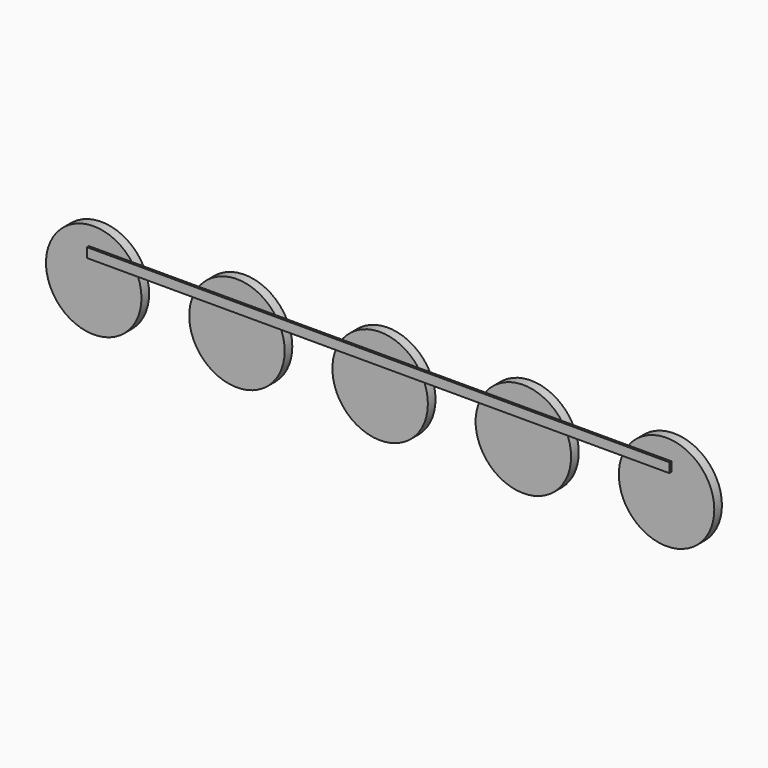
from build123d import *

# Parameters (mm, degrees)
F0_R     = 12.7
F1_DEPTH = 2.54
F3_DEPTH = 0.635


with BuildPart() as f1:
    # F0 (on Front) → F1 (new body)
    with BuildSketch(Plane.XZ):
        with Locations((-76.2, 0)):
            Circle(F0_R)
        with Locations((-38.1, 0)):
            Circle(F0_R)
        Circle(F0_R)
        with Locations((38.1, 0)):
            Circle(F0_R)
        with Locations((76.2, 0)):
            Circle(F0_R)
    extrude(amount=F1_DEPTH)


with BuildPart() as f3:
    # F2 (on face) → F3 (new body)
    with BuildSketch(Plane.XZ.offset(2.54)):
        with BuildLine():
            Line((-48.26, 7.62), (-66.04, 7.62))
            ThreePointArc((-66.04, 7.62), (-65.226391, 6.392958), (-64.560258, 5.08))
            Line((-64.560258, 5.08), (-49.739742, 5.08))
            Line((-49.739742, 5.08), (-26.460258, 5.08))
            Line((-26.460258, 5.08), (-11.639742, 5.08))
            Line((-11.639742, 5.08), (11.639742, 5.08))
            Line((11.639742, 5.08), (26.460258, 5.08))
            Line((26.460258, 5.08), (49.739742, 5.08))
            Line((49.739742, 5.08), (64.560258, 5.08))
            Line((64.560258, 5.08), (77.47, 5.08))
            Line((77.47, 5.08), (77.47, 7.62))
            Line((77.47, 7.62), (66.04, 7.62))
            Line((66.04, 7.62), (48.26, 7.62))
            Line((48.26, 7.62), (27.94, 7.62))
            Line((27.94, 7.62), (10.16, 7.62))
            Line((10.16, 7.62), (-10.16, 7.62))
            Line((-10.16, 7.62), (-27.94, 7.62))
            Line((-27.94, 7.62), (-48.26, 7.62))
        make_face()
        with BuildLine():
            ThreePointArc((-64.560258, 5.08), (-65.226391, 6.392958), (-66.04, 7.62))
            Line((-66.04, 7.62), (-77.47, 7.62))
            Line((-77.47, 7.62), (-77.47, 5.08))
            Line((-77.47, 5.08), (-64.560258, 5.08))
        make_face()
    extrude(amount=F3_DEPTH)


solid = Compound([f1.part, f3.part])
